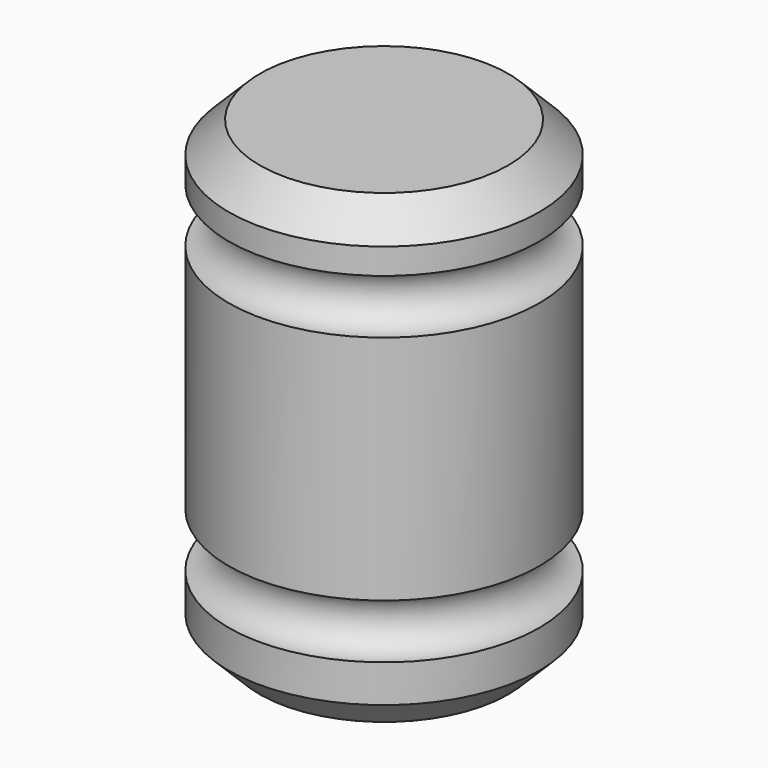
from build123d import *

# Parameters (mm, degrees)
F2_SIZE = 5.08


with BuildPart() as f1:
    # F0 (on Front) → F1 (revolve)
    with BuildSketch(Plane.XZ):
        with BuildLine():
            Line((-25.4, 0), (0, 0))
            Line((0, 0), (0, 11.241302))
            ThreePointArc((0, 11.241302), (-4.445, 15.686302), (0, 20.131302))
            Line((0, 20.131302), (0, 58.004235))
            ThreePointArc((0, 58.004235), (-4.445, 62.449235), (0, 66.894235))
            Line((0, 66.894235), (0, 76.2))
            Line((0, 76.2), (-25.4, 76.2))
            Line((-25.4, 76.2), (-25.4, 0))
        make_face()
    revolve(axis=Axis((-25.4, 0, 38.1), (0, 0, 1)))

    # F2
    f2_edges = [f1.edges().sort_by_distance(p)[0] for p in [
        (-50.8, 0, 0),
        (-50.8, 0, 76.2),
    ]]
    chamfer(f2_edges, length=F2_SIZE)


solid = f1.part
